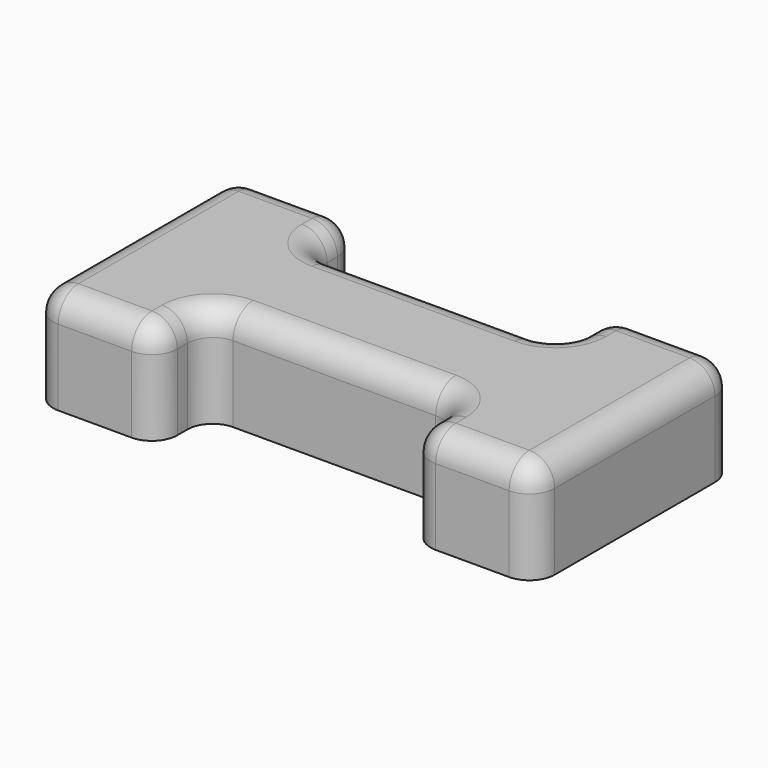
from build123d import *

# Parameters (mm, degrees)
F0_W     = 10
F0_H     = 4.9
F1_DEPTH = 4
F2_R     = 1


with BuildPart() as f1:
    # F0 (on Top) → F1 (new body)
    with BuildSketch(Plane.XY):
        Polygon((-5, -4.95), (-5, -2.45), (-5, 2.45), (-5, 4.95), (-9.9, 4.95), (-9.9, -4.95), align=None)
        Polygon((5, 2.45), (5, -2.45), (5, -4.95), (9.9, -4.95), (9.9, 4.95), (5, 4.95), align=None)
        Rectangle(F0_W, F0_H)
    extrude(amount=-F1_DEPTH)

    # F2
    f2_edges = [f1.edges().sort_by_distance(p)[0] for p in [
        (-5, 2.45, -2),
        (-5, 4.95, -2),
        (-9.9, 4.95, -2),
        (-9.9, -4.95, -2),
        (5, -4.95, -2),
        (-5, -4.95, -2),
        (-5, -2.45, -2),
        (5, 4.95, -2),
        (5, -2.45, -2),
        (9.9, 4.95, -2),
        (9.9, -4.95, -2),
        (5, 2.45, -2),
        (-5, 3.7, 0),
        (-7.45, 4.95, 0),
        (-9.9, 0, 0),
        (-7.45, -4.95, 0),
        (-5, -3.7, 0),
        (0, -2.45, 0),
        (5, -3.7, 0),
        (7.45, -4.95, 0),
        (9.9, 0, 0),
        (7.45, 4.95, 0),
        (5, 3.7, 0),
        (0, 2.45, 0),
    ]]
    fillet(f2_edges, radius=F2_R)


solid = f1.part
